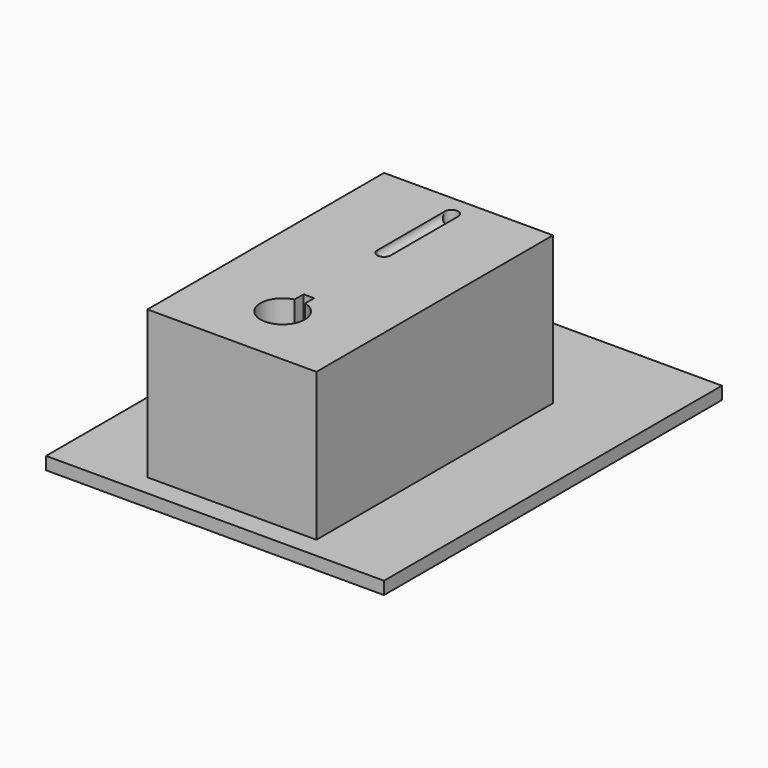
from build123d import *

# Parameters (mm, degrees)
F0_W      = 203.2
F0_H      = 254
F1_DEPTH  = 7.62
F2_W      = 101.6
F2_H      = 76.2
F3_DEPTH  = 88.9
F4_R      = 4.064
F5_DEPTH  = 88.9
F8_DEPTH  = 101.6
F10_DEPTH = 30.48


with BuildPart() as f1:
    # F0 (on Top) → F1 (new body)
    with BuildSketch(Plane.XY):
        with Locations((0, -25.4)):
            Rectangle(F0_W, F0_H)
    extrude(amount=F1_DEPTH)

    # F2 (on face) → F3 (join)
    with BuildSketch(Plane.XY.offset(7.62)):
        Rectangle(F2_W, F2_H)
    extrude(amount=F3_DEPTH)

    # F4 (on face) → F5 (cut)
    with BuildSketch(Plane.XY.offset(96.52)):
        with Locations((0, 25.4)):
            Circle(F4_R)
    extrude(amount=-F5_DEPTH, mode=Mode.SUBTRACT)

    # F6 (on face) → F7 (revolve, cut)
    with BuildSketch(Plane.XY.offset(96.52)):
        with BuildLine():
            ThreePointArc((0, -29.464), (2.8736819587, -28.2736819587), (4.064, -25.4))
            Line((4.064, -25.4), (4.064, 25.4))
            ThreePointArc((4.064, 25.4), (2.8736819587, 22.5263180413), (0, 21.336))
            Line((0, 21.336), (0, -29.464))
        make_face()
    revolve(axis=Axis((0, 0, 96.52), (0, -1, 0)), mode=Mode.SUBTRACT)

    # F8 (add): a face of the model
    f8_faces = [f1.faces().sort_by_distance(p)[0] for p in [
        (0, -38.1, 52.07),
    ]]
    extrude(f8_faces, amount=F8_DEPTH)

    # F9 (on face) → F10 (cut)
    with BuildSketch(Plane.XY.offset(96.52)):
        with BuildLine():
            Line((-3.175, -81.915), (-3.175, -88.6484904355))
            ThreePointArc((-3.175, -88.6484904355), (0, -114.935), (3.175, -88.6484904355))
            Line((3.175, -88.6484904355), (3.175, -81.915))
            Line((3.175, -81.915), (-3.175, -81.915))
        make_face()
    extrude(amount=-F10_DEPTH, mode=Mode.SUBTRACT)


solid = f1.part
